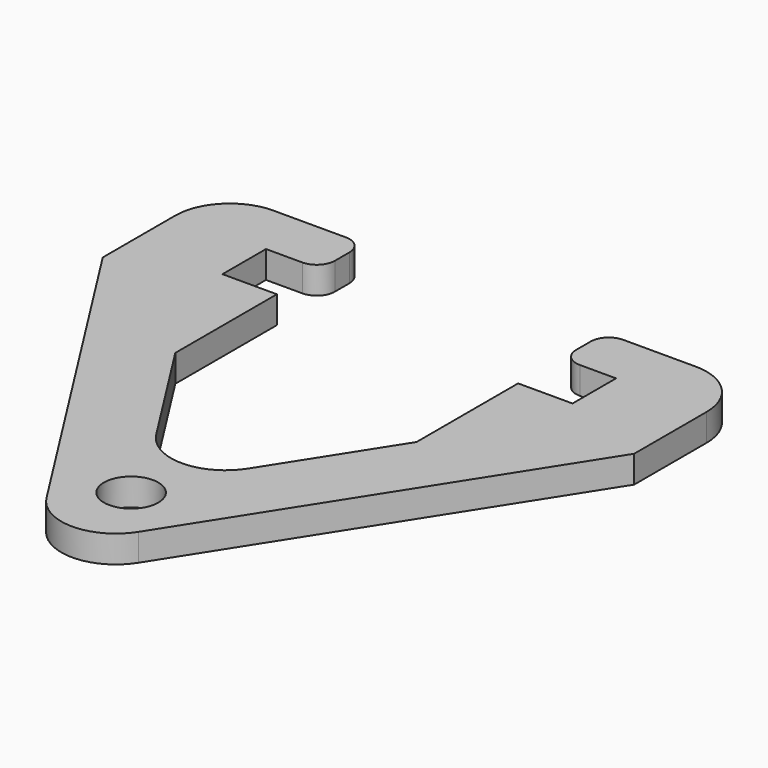
from build123d import *

# Parameters (mm, degrees)
F1_R     = 1.5
F2_DEPTH = 1.5


with BuildPart() as f2:
    # F1 (on Top) → F2 (new body)
    with BuildSketch(Plane.XY):
        with BuildLine():
            Line((-14.65, 23), (-2.5303047444, 3.9724920901))
            ThreePointArc((-2.5303047444, 3.9724920901), (0, 2.584186199), (2.5303047444, 3.9724920901))
            Line((2.5303047444, 3.9724920901), (14.65, 23))
            Line((14.65, 23), (14.65, 28))
            ThreePointArc((14.65, 28), (13.7713203436, 30.1213203436), (11.65, 31))
            Line((11.65, 31), (7.65, 31))
            ThreePointArc((7.65, 31), (6.9428932188, 30.7071067812), (6.65, 30))
            Line((6.65, 30), (6.65, 29))
            ThreePointArc((6.65, 29), (6.9428932188, 28.2928932188), (7.65, 28))
            Line((7.65, 28), (9.65, 28))
            Line((9.65, 28), (9.65, 25))
            Line((9.65, 25), (6.65, 25))
            Line((6.65, 25), (6.65, 18))
            Line((6.65, 18), (2.5303047444, 11.5322190526))
            ThreePointArc((2.5303047444, 11.5322190526), (0, 10.1439131615), (-2.5303047444, 11.5322190526))
            Line((-2.5303047444, 11.5322190526), (-6.65, 18))
            Line((-6.65, 18), (-6.65, 25))
            Line((-6.65, 25), (-9.65, 25))
            Line((-9.65, 25), (-9.65, 28))
            Line((-9.65, 28), (-7.65, 28))
            ThreePointArc((-7.65, 28), (-6.9428932188, 28.2928932188), (-6.65, 29))
            Line((-6.65, 29), (-6.65, 30))
            ThreePointArc((-6.65, 30), (-6.9428932188, 30.7071067812), (-7.65, 31))
            Line((-7.65, 31), (-11.65, 31))
            ThreePointArc((-11.65, 31), (-13.7713203436, 30.1213203436), (-14.65, 28))
            Line((-14.65, 28), (-14.65, 23))
        make_face()
        with Locations((0, 6.6439131615)):
            Circle(F1_R, mode=Mode.SUBTRACT)
    extrude(amount=F2_DEPTH)


solid = f2.part
